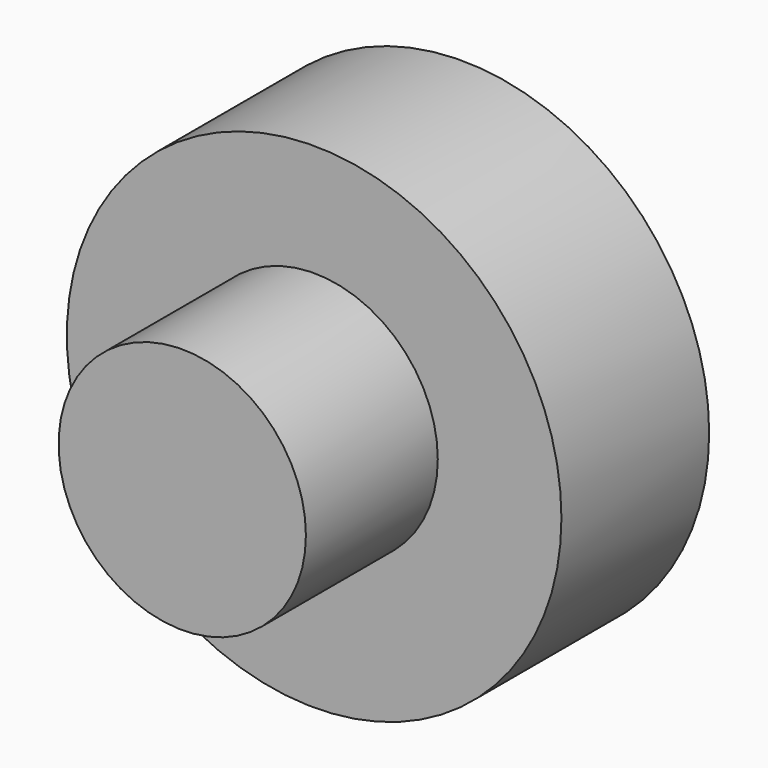
from build123d import *

# Parameters (mm, degrees)
F0_R      = 19.05
F1_DEPTH  = 25.4
F0_R_2    = 38.1
F1_FACE_R = 19.05
F2_DEPTH  = 28.448


with BuildPart() as f1:
    # F0 (on Front) → F1 (new body)
    with BuildSketch(Plane.XZ):
        Circle(F0_R)
    extrude(amount=F1_DEPTH)

    # F0 (on Front) + F1_face (on face) → F2 (join)
    with BuildSketch(Plane.XZ):
        with Locations((0, -1.7877216443)):
            Circle(F0_R_2)
        Circle(F0_R, mode=Mode.SUBTRACT)
    with BuildSketch(Plane.XZ.offset(25.4)):
        Circle(F1_FACE_R)
    extrude(amount=-F2_DEPTH)


solid = f1.part
